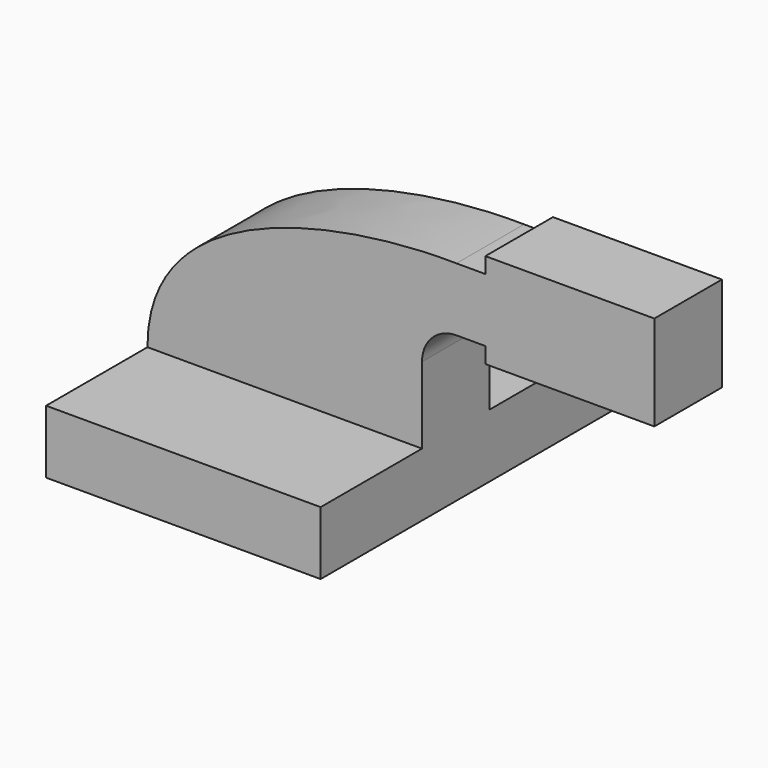
from build123d import *

# Parameters (mm, degrees)
F1_DEPTH = 63.5
F2_DEPTH = 25.4


with BuildPart() as f1:
    # F0 (on Front) → F1 (new body, symmetric)
    with BuildSketch(Plane.XZ):
        Polygon((-41.275, -9.525), (41.275, -9.525), (41.275, -7.805796), (41.275, 9.525), (22.225, 9.525), (-41.275, 9.525), align=None)
    extrude(amount=F1_DEPTH, both=True)

    # F0 (on Front) → F2 (join)
    with BuildSketch(Plane.XZ):
        Polygon((-41.275, -9.525), (41.275, -9.525), (41.275, -7.805796), (41.275, 9.525), (22.225, 9.525), (-41.275, 9.525), align=None)
        with BuildLine():
            add(Edge.make_bspline(
                [(-41.275, 9.525), (-41.482281, 52.308347), (19.065714, 62.464789), (51.622058, 61.9252)],
                knots=[0, 0, 0, 0, 106.656666, 106.656666, 106.656666, 106.656666], degree=3))
            Line((-41.275, 9.525), (22.225, 9.525))
            Line((22.225, 9.525), (22.225, 32.528142))
            ThreePointArc((22.225, 32.528142), (30.835199, 53.315001), (51.622058, 61.9252))
        make_face()
        with BuildLine():
            Line((22.225, 9.525), (41.275, 9.525))
            Line((41.275, 9.525), (41.275, 32.528142))
            ThreePointArc((41.275, 32.528142), (44.305583, 39.844617), (51.622058, 42.8752))
            Line((51.622058, 42.8752), (60.325, 42.8752))
            Line((60.325, 42.8752), (60.325, 61.9252))
            Line((60.325, 61.9252), (51.622058, 61.9252))
            ThreePointArc((51.622058, 61.9252), (30.835199, 53.315001), (22.225, 32.528142))
            Line((22.225, 32.528142), (22.225, 9.525))
        make_face()
        Polygon((60.325, 66.675), (60.325, 61.9252), (60.325, 42.8752), (60.325, 38.1), (82.32934, 38.1), (82.312385, 66.675), align=None)
        Polygon((111.125, 66.675), (82.312385, 66.675), (82.32934, 38.1), (111.125, 38.1), align=None)
    extrude(amount=F2_DEPTH)


solid = f1.part
